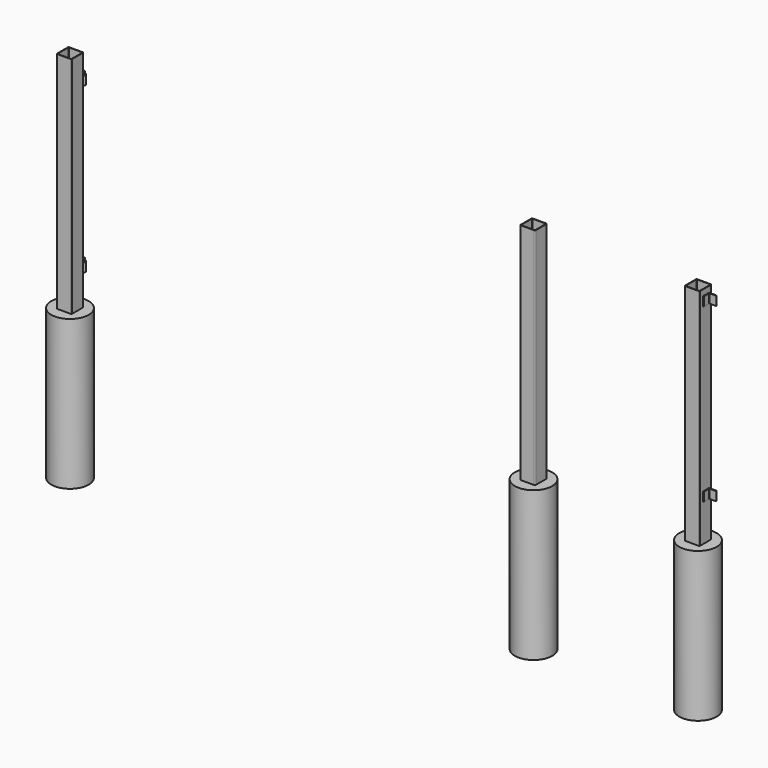
from build123d import *

# Parameters (mm, degrees)
F2_DEPTH  = 2500
F1_R      = 125
F3_DEPTH  = 1000
F9_DEPTH  = 60
F11_DEPTH = 60
F13_DEPTH = 60
F15_DEPTH = 60
F12_R     = 7
F12_R_2   = 14
F16_DEPTH = 60
F17_DEPTH = 80
F14_R     = 7
F14_R_2   = 14
F18_DEPTH = 60
F19_DEPTH = 80
F20_DEPTH = 50
F12_R_3   = 10
F21_DEPTH = 50
F22_DEPTH = 70
F23_DEPTH = 50
F14_R_3   = 10
F24_DEPTH = 50
F25_DEPTH = 70


with BuildPart() as f2:
    # F1 (on offset) → F2 (new body)
    with BuildSketch(Plane.XY.offset(-1000)):
        with BuildLine():
            Line((-1506, 50), (-1594, 50))
            ThreePointArc((-1594, 50), (-1598.242641, 48.242641), (-1600, 44))
            Line((-1600, 44), (-1600, -44))
            ThreePointArc((-1600, -44), (-1598.242641, -48.242641), (-1594, -50))
            Line((-1594, -50), (-1506, -50))
            ThreePointArc((-1506, -50), (-1501.757359, -48.242641), (-1500, -44))
            Line((-1500, -44), (-1500, 44))
            ThreePointArc((-1500, 44), (-1501.757359, 48.242641), (-1506, 50))
        make_face()
        with BuildLine():
            ThreePointArc((-1597, 44), (-1596.12132, 46.12132), (-1594, 47))
            Line((-1594, 47), (-1506, 47))
            ThreePointArc((-1506, 47), (-1503.87868, 46.12132), (-1503, 44))
            Line((-1503, 44), (-1503, -44))
            ThreePointArc((-1503, -44), (-1503.87868, -46.12132), (-1506, -47))
            Line((-1506, -47), (-1594, -47))
            ThreePointArc((-1594, -47), (-1596.12132, -46.12132), (-1597, -44))
            Line((-1597, -44), (-1597, 44))
        make_face(mode=Mode.SUBTRACT)
        with BuildLine():
            Line((1594, 50), (1506, 50))
            ThreePointArc((1506, 50), (1501.757359, 48.242641), (1500, 44))
            Line((1500, 44), (1500, -44))
            ThreePointArc((1500, -44), (1501.757359, -48.242641), (1506, -50))
            Line((1506, -50), (1594, -50))
            ThreePointArc((1594, -50), (1598.242641, -48.242641), (1600, -44))
            Line((1600, -44), (1600, 44))
            ThreePointArc((1600, 44), (1598.242641, 48.242641), (1594, 50))
        make_face()
        with BuildLine():
            ThreePointArc((1503, 44), (1503.87868, 46.12132), (1506, 47))
            Line((1506, 47), (1594, 47))
            ThreePointArc((1594, 47), (1596.12132, 46.12132), (1597, 44))
            Line((1597, 44), (1597, -44))
            ThreePointArc((1597, -44), (1596.12132, -46.12132), (1594, -47))
            Line((1594, -47), (1506, -47))
            ThreePointArc((1506, -47), (1503.87868, -46.12132), (1503, -44))
            Line((1503, -44), (1503, 44))
        make_face(mode=Mode.SUBTRACT)
        with BuildLine():
            Line((2694, 50), (2606, 50))
            ThreePointArc((2606, 50), (2601.757359, 48.242641), (2600, 44))
            Line((2600, 44), (2600, -44))
            ThreePointArc((2600, -44), (2601.757359, -48.242641), (2606, -50))
            Line((2606, -50), (2694, -50))
            ThreePointArc((2694, -50), (2698.242641, -48.242641), (2700, -44))
            Line((2700, -44), (2700, 44))
            ThreePointArc((2700, 44), (2698.242641, 48.242641), (2694, 50))
        make_face()
        with BuildLine():
            ThreePointArc((2603, 44), (2603.87868, 46.12132), (2606, 47))
            Line((2606, 47), (2694, 47))
            ThreePointArc((2694, 47), (2696.12132, 46.12132), (2697, 44))
            Line((2697, 44), (2697, -44))
            ThreePointArc((2697, -44), (2696.12132, -46.12132), (2694, -47))
            Line((2694, -47), (2606, -47))
            ThreePointArc((2606, -47), (2603.87868, -46.12132), (2603, -44))
            Line((2603, -44), (2603, 44))
        make_face(mode=Mode.SUBTRACT)
    extrude(amount=F2_DEPTH)


with BuildPart() as f3:
    # F1 (on offset) → F3 (new body)
    with BuildSketch(Plane.XY.offset(-1000)):
        with Locations((-1550, 0)):
            Circle(F1_R)
        with BuildLine():
            ThreePointArc((-1600, 44), (-1598.242641, 48.242641), (-1594, 50))
            Line((-1594, 50), (-1506, 50))
            ThreePointArc((-1506, 50), (-1501.757359, 48.242641), (-1500, 44))
            Line((-1500, 44), (-1500, -44))
            ThreePointArc((-1500, -44), (-1501.757359, -48.242641), (-1506, -50))
            Line((-1506, -50), (-1594, -50))
            ThreePointArc((-1594, -50), (-1598.242641, -48.242641), (-1600, -44))
            Line((-1600, -44), (-1600, 44))
        make_face(mode=Mode.SUBTRACT)
        with Locations((1550, 0)):
            Circle(F1_R)
        with BuildLine():
            ThreePointArc((1500, 44), (1501.757359, 48.242641), (1506, 50))
            Line((1506, 50), (1594, 50))
            ThreePointArc((1594, 50), (1598.242641, 48.242641), (1600, 44))
            Line((1600, 44), (1600, -44))
            ThreePointArc((1600, -44), (1598.242641, -48.242641), (1594, -50))
            Line((1594, -50), (1506, -50))
            ThreePointArc((1506, -50), (1501.757359, -48.242641), (1500, -44))
            Line((1500, -44), (1500, 44))
        make_face(mode=Mode.SUBTRACT)
        with Locations((2650, 0)):
            Circle(F1_R)
        with BuildLine():
            ThreePointArc((2600, 44), (2601.757359, 48.242641), (2606, 50))
            Line((2606, 50), (2694, 50))
            ThreePointArc((2694, 50), (2698.242641, 48.242641), (2700, 44))
            Line((2700, 44), (2700, -44))
            ThreePointArc((2700, -44), (2698.242641, -48.242641), (2694, -50))
            Line((2694, -50), (2606, -50))
            ThreePointArc((2606, -50), (2601.757359, -48.242641), (2600, -44))
            Line((2600, -44), (2600, 44))
        make_face(mode=Mode.SUBTRACT)
    extrude(amount=F3_DEPTH)


with BuildPart() as f9:
    # F8 (on offset) → F9 (new body)
    with BuildSketch(Plane.XY.offset(250)):
        with BuildLine():
            Line((-1600, -19), (-1600, 29))
            ThreePointArc((-1600, 29), (-1600.292893, 29.707107), (-1601, 30))
            Line((-1601, 30), (-1649, 30))
            ThreePointArc((-1649, 30), (-1649.707107, 29.707107), (-1650, 29))
            Line((-1650, 29), (-1650, 28))
            ThreePointArc((-1650, 28), (-1649.12132, 25.87868), (-1647, 25))
            Line((-1647, 25), (-1608, 25))
            ThreePointArc((-1608, 25), (-1605.87868, 24.12132), (-1605, 22))
            Line((-1605, 22), (-1605, -17))
            ThreePointArc((-1605, -17), (-1604.12132, -19.12132), (-1602, -20))
            Line((-1602, -20), (-1601, -20))
            ThreePointArc((-1601, -20), (-1600.292893, -19.707107), (-1600, -19))
        make_face()
        with BuildLine():
            ThreePointArc((2701, 30), (2700.292893, 29.707107), (2700, 29))
            Line((2700, 29), (2700, -19))
            ThreePointArc((2700, -19), (2700.292893, -19.707107), (2701, -20))
            Line((2701, -20), (2702, -20))
            ThreePointArc((2702, -20), (2704.12132, -19.12132), (2705, -17))
            Line((2705, -17), (2705, 22))
            ThreePointArc((2705, 22), (2705.87868, 24.12132), (2708, 25))
            Line((2708, 25), (2747, 25))
            ThreePointArc((2747, 25), (2749.12132, 25.87868), (2750, 28))
            Line((2750, 28), (2750, 29))
            ThreePointArc((2750, 29), (2749.707107, 29.707107), (2749, 30))
            Line((2749, 30), (2701, 30))
        make_face()
    extrude(amount=F9_DEPTH)


with BuildPart() as f11:
    # F10 (on offset) → F11 (new body)
    with BuildSketch(Plane.XY.offset(1400)):
        with BuildLine():
            Line((-1600, -19), (-1600, 29))
            ThreePointArc((-1600, 29), (-1600.292893, 29.707107), (-1601, 30))
            Line((-1601, 30), (-1649, 30))
            ThreePointArc((-1649, 30), (-1649.707107, 29.707107), (-1650, 29))
            Line((-1650, 29), (-1650, 28))
            ThreePointArc((-1650, 28), (-1649.12132, 25.87868), (-1647, 25))
            Line((-1647, 25), (-1608, 25))
            ThreePointArc((-1608, 25), (-1605.87868, 24.12132), (-1605, 22))
            Line((-1605, 22), (-1605, -17))
            ThreePointArc((-1605, -17), (-1604.12132, -19.12132), (-1602, -20))
            Line((-1602, -20), (-1601, -20))
            ThreePointArc((-1601, -20), (-1600.292893, -19.707107), (-1600, -19))
        make_face()
        with BuildLine():
            ThreePointArc((2701, 30), (2700.292893, 29.707107), (2700, 29))
            Line((2700, 29), (2700, -19))
            ThreePointArc((2700, -19), (2700.292893, -19.707107), (2701, -20))
            Line((2701, -20), (2702, -20))
            ThreePointArc((2702, -20), (2704.12132, -19.12132), (2705, -17))
            Line((2705, -17), (2705, 22))
            ThreePointArc((2705, 22), (2705.87868, 24.12132), (2708, 25))
            Line((2708, 25), (2747, 25))
            ThreePointArc((2747, 25), (2749.12132, 25.87868), (2750, 28))
            Line((2750, 28), (2750, 29))
            ThreePointArc((2750, 29), (2749.707107, 29.707107), (2749, 30))
            Line((2749, 30), (2701, 30))
        make_face()
    extrude(amount=F11_DEPTH)


with BuildPart() as f13:
    # F12 (on offset) → F13 (new body)
    with BuildSketch(Plane.XY.offset(200)):
        with BuildLine():
            Line((-1562, 50), (-1529, 50))
            ThreePointArc((-1529, 50), (-1528.292893, 50.292893), (-1528, 51))
            Line((-1528, 51), (-1528, 67))
            Line((-1528, 67), (-1528, 70))
            Line((-1528, 70), (-1532, 70))
            Line((-1532, 70), (-1532, 56))
            ThreePointArc((-1532, 56), (-1532.585786, 54.585786), (-1534, 54))
            Line((-1534, 54), (-1561, 54))
            ThreePointArc((-1561, 54), (-1562.414214, 53.414214), (-1563, 52))
            Line((-1563, 52), (-1563, 51))
            ThreePointArc((-1563, 51), (-1562.707107, 50.292893), (-1562, 50))
        make_face()
        with BuildLine():
            ThreePointArc((1528, 51), (1528.292893, 50.292893), (1529, 50))
            Line((1529, 50), (1562, 50))
            ThreePointArc((1562, 50), (1562.707107, 50.292893), (1563, 51))
            Line((1563, 51), (1563, 52))
            ThreePointArc((1563, 52), (1562.414214, 53.414214), (1561, 54))
            Line((1561, 54), (1534, 54))
            ThreePointArc((1534, 54), (1532.585786, 54.585786), (1532, 56))
            Line((1532, 56), (1532, 70))
            Line((1532, 70), (1528, 70))
            Line((1528, 70), (1528, 67))
            Line((1528, 67), (1528, 51))
        make_face()
    extrude(amount=F13_DEPTH)


with BuildPart() as f15:
    # F14 (on offset) → F15 (new body)
    with BuildSketch(Plane.XY.offset(1300)):
        with BuildLine():
            ThreePointArc((1528, 51), (1528.292893, 50.292893), (1529, 50))
            Line((1529, 50), (1562, 50))
            ThreePointArc((1562, 50), (1562.707107, 50.292893), (1563, 51))
            Line((1563, 51), (1563, 52))
            ThreePointArc((1563, 52), (1562.414214, 53.414214), (1561, 54))
            Line((1561, 54), (1534, 54))
            ThreePointArc((1534, 54), (1532.585786, 54.585786), (1532, 56))
            Line((1532, 56), (1532, 70))
            Line((1532, 70), (1528, 70))
            Line((1528, 70), (1528, 67))
            Line((1528, 67), (1528, 51))
        make_face()
        with BuildLine():
            Line((-1562, 50), (-1529, 50))
            ThreePointArc((-1529, 50), (-1528.292893, 50.292893), (-1528, 51))
            Line((-1528, 51), (-1528, 67))
            Line((-1528, 67), (-1528, 70))
            Line((-1528, 70), (-1532, 70))
            Line((-1532, 70), (-1532, 56))
            ThreePointArc((-1532, 56), (-1532.585786, 54.585786), (-1534, 54))
            Line((-1534, 54), (-1561, 54))
            ThreePointArc((-1561, 54), (-1562.414214, 53.414214), (-1563, 52))
            Line((-1563, 52), (-1563, 51))
            ThreePointArc((-1563, 51), (-1562.707107, 50.292893), (-1562, 50))
        make_face()
    extrude(amount=F15_DEPTH)


with BuildPart() as f16:
    # F12 (on offset) → F16 (new body)
    with BuildSketch(Plane.XY.offset(200)):
        with BuildLine():
            ThreePointArc((-1500, 67), (-1514, 81), (-1528, 67))
            ThreePointArc((-1528, 67), (-1514, 53), (-1500, 67))
        make_face()
        with Locations((-1514, 67)):
            Circle(F12_R, mode=Mode.SUBTRACT)
        with Locations((1514, 67)):
            Circle(F12_R_2)
        with Locations((1514, 67)):
            Circle(F12_R, mode=Mode.SUBTRACT)
    extrude(amount=F16_DEPTH)

    # F12 (on offset) → F17 (join)
    with BuildSketch(Plane.XY.offset(200)):
        with Locations((-1514, 67)):
            Circle(F12_R)
        with Locations((1514, 67)):
            Circle(F12_R)
    extrude(amount=F17_DEPTH)


with BuildPart() as f18:
    # F14 (on offset) → F18 (new body)
    with BuildSketch(Plane.XY.offset(1300)):
        with BuildLine():
            ThreePointArc((-1500, 67), (-1514, 81), (-1528, 67))
            ThreePointArc((-1528, 67), (-1514, 53), (-1500, 67))
        make_face()
        with Locations((-1514, 67)):
            Circle(F14_R, mode=Mode.SUBTRACT)
        with Locations((1514, 67)):
            Circle(F14_R_2)
        with Locations((1514, 67)):
            Circle(F14_R, mode=Mode.SUBTRACT)
    extrude(amount=F18_DEPTH)

    # F14 (on offset) → F19 (join)
    with BuildSketch(Plane.XY.offset(1300)):
        with Locations((-1514, 67)):
            Circle(F14_R)
        with Locations((1514, 67)):
            Circle(F14_R)
    extrude(amount=F19_DEPTH)


with BuildPart() as f20:
    # F12 (on offset) → F20 (new body)
    with BuildSketch(Plane.XY.offset(200)):
        Polygon((2600, 10), (2600, 50), (2596, 50), (2596, 40), (2596, 10), align=None)
    extrude(amount=F20_DEPTH)

    # F12 (on offset) → F21 (join)
    with BuildSketch(Plane.XY.offset(200)):
        with Locations((2586, 40)):
            Circle(F12_R_3)
        with Locations((2586, 40)):
            Circle(F12_R, mode=Mode.SUBTRACT)
        with Locations((2586, 40)):
            Circle(F12_R)
    extrude(amount=F21_DEPTH)

    # F12 (on offset) → F22 (join)
    with BuildSketch(Plane.XY.offset(200)):
        with Locations((2586, 40)):
            Circle(F12_R)
    extrude(amount=F22_DEPTH)


with BuildPart() as f23:
    # F14 (on offset) → F23 (new body)
    with BuildSketch(Plane.XY.offset(1300)):
        Polygon((2600, 10), (2600, 50), (2596, 50), (2596, 40), (2596, 10), align=None)
    extrude(amount=F23_DEPTH)


with BuildPart() as f24:
    # F14 (on offset) → F24 (new body)
    with BuildSketch(Plane.XY.offset(1300)):
        with Locations((2586, 40)):
            Circle(F14_R_3)
        with Locations((2586, 40)):
            Circle(F14_R, mode=Mode.SUBTRACT)
    extrude(amount=F24_DEPTH)

    # F14 (on offset) → F25 (join)
    with BuildSketch(Plane.XY.offset(1300)):
        with Locations((2586, 40)):
            Circle(F14_R)
    extrude(amount=F25_DEPTH)


solid = Compound([f2.part, f3.part, f9.part, f11.part, f13.part, f15.part, f16.part, f18.part, f20.part, f23.part, f24.part])
